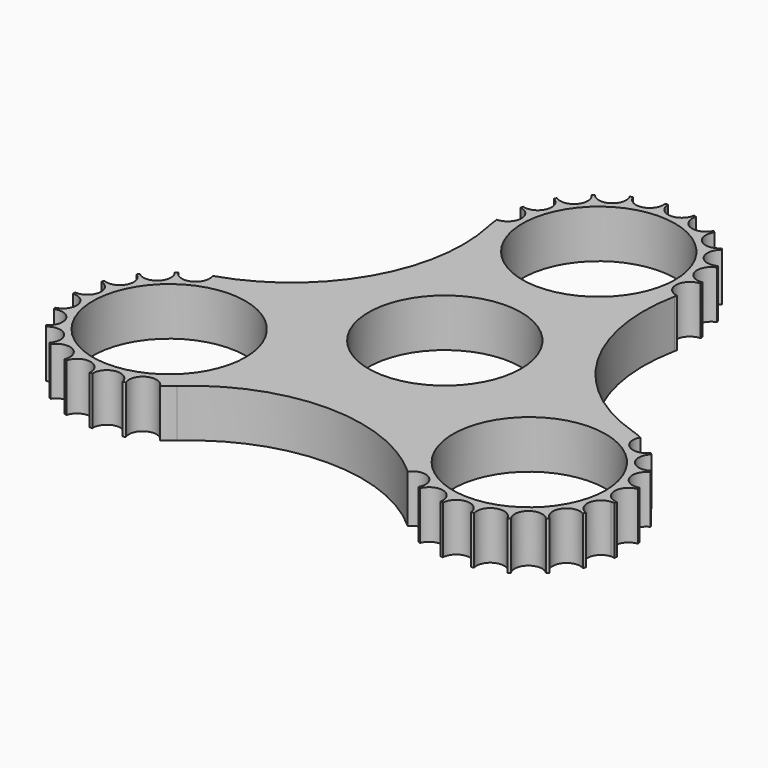
from build123d import *

# Parameters (mm, degrees)
F0_R     = 11.1
F1_DEPTH = 7


with BuildPart() as f1:
    # F0 (on Top) → F1 (new body)
    with BuildSketch(Plane.XY):
        with BuildLine():
            ThreePointArc((13.696931, 25.102746), (11.974288, 27.214871), (13.957972, 29.083981))
            ThreePointArc((13.957972, 29.083981), (13.9413, 29.280684), (13.921856, 29.477133))
            ThreePointArc((13.921856, 29.477133), (11.630843, 30.953557), (12.939852, 33.344177))
            ThreePointArc((12.939852, 33.344177), (12.863211, 33.526101), (12.784013, 33.706927))
            ThreePointArc((12.784013, 33.706927), (10.148889, 34.403128), (10.655089, 37.081249))
            ThreePointArc((10.655089, 37.081249), (10.525982, 37.230586), (10.394781, 37.378087))
            ThreePointArc((10.394781, 37.378087), (7.673492, 37.225916), (7.327332, 39.929384))
            ThreePointArc((7.327332, 39.929384), (7.158396, 40.031516), (6.988036, 40.131255))
            ThreePointArc((6.988036, 40.131255), (4.44696, 39.145607), (3.282324, 41.609789))
            ThreePointArc((3.282324, 41.609789), (3.090096, 41.654717), (2.897254, 41.696931))
            ThreePointArc((2.897254, 41.696931), (0.785129, 39.974288), (-1.083981, 41.957972))
            ThreePointArc((-1.083981, 41.957972), (-1.280684, 41.9413), (-1.477133, 41.921856))
            ThreePointArc((-1.477133, 41.921856), (-2.953557, 39.630843), (-5.344177, 40.939852))
            ThreePointArc((-5.344177, 40.939852), (-5.526101, 40.863211), (-5.706927, 40.784013))
            ThreePointArc((-5.706927, 40.784013), (-6.403128, 38.148889), (-9.081249, 38.655089))
            ThreePointArc((-9.081249, 38.655089), (-9.230586, 38.525982), (-9.378087, 38.394781))
            ThreePointArc((-9.378087, 38.394781), (-9.225916, 35.673492), (-11.929384, 35.327332))
            ThreePointArc((-11.929384, 35.327332), (-12.031516, 35.158396), (-12.131255, 34.988036))
            ThreePointArc((-12.131255, 34.988036), (-11.145607, 32.44696), (-13.609789, 31.282324))
            ThreePointArc((-13.609789, 31.282324), (-13.654717, 31.090096), (-13.696931, 30.897254))
            ThreePointArc((-13.696931, 30.897254), (-11.974288, 28.785129), (-13.957972, 26.916019))
            ThreePointArc((-13.957972, 26.916019), (-13.852658, 25.974198), (-13.683867, 25.041659))
            ThreePointArc((-13.683867, 25.041659), (-16.468709, 7.258906), (-30.476603, -4.044214))
            ThreePointArc((-30.476603, -4.044214), (-30.506332, -4.053796), (-30.536039, -4.063444))
            ThreePointArc((-30.536039, -4.063444), (-31.503871, -6.611359), (-34.114409, -5.827993))
            ThreePointArc((-34.114409, -5.827993), (-34.276424, -5.940783), (-34.436831, -6.055846))
            ThreePointArc((-34.436831, -6.055846), (-34.569945, -8.778134), (-37.294788, -8.839809))
            Line((-37.294788, -8.839809), (-37.531019, -9.156145))
            ThreePointArc((-37.531019, -9.156145), (-36.816385, -11.786329), (-39.388805, -12.687008))
            ThreePointArc((-39.388805, -12.687008), (-39.453581, -12.873487), (-39.515721, -13.06086))
            ThreePointArc((-39.515721, -13.06086), (-38.023292, -15.34148), (-40.191484, -16.992998))
            ThreePointArc((-40.191484, -16.992998), (-40.195465, -17.190367), (-40.196662, -17.387772))
            ThreePointArc((-40.196662, -17.387772), (-38.072527, -19.095584), (-39.624253, -21.33628))
            ThreePointArc((-39.624253, -21.33628), (-39.567049, -21.525218), (-39.507186, -21.713332))
            ThreePointArc((-39.507186, -21.713332), (-36.959271, -22.681164), (-37.742637, -25.291702))
            ThreePointArc((-37.742637, -25.291702), (-37.629847, -25.453716), (-37.514784, -25.614124))
            ThreePointArc((-37.514784, -25.614124), (-34.792496, -25.747238), (-34.730821, -28.472081))
            ThreePointArc((-34.730821, -28.472081), (-34.573486, -28.591311), (-34.414485, -28.708311))
            ThreePointArc((-34.414485, -28.708311), (-31.784301, -27.993677), (-30.883622, -30.566098))
            ThreePointArc((-30.883622, -30.566098), (-30.697143, -30.630874), (-30.50977, -30.693014))
            ThreePointArc((-30.50977, -30.693014), (-28.22915, -29.200585), (-26.577632, -31.368777))
            Line((-26.577632, -31.368777), (-26.182858, -31.373954))
            ThreePointArc((-26.182858, -31.373954), (-24.475046, -29.24982), (-22.23435, -30.801546))
            ThreePointArc((-22.23435, -30.801546), (-22.045412, -30.744341), (-21.857298, -30.684478))
            ThreePointArc((-21.857298, -30.684478), (-20.889466, -28.136563), (-18.278928, -28.919929))
            ThreePointArc((-18.278928, -28.919929), (-17.515944, -28.357813), (-16.792736, -27.745367))
            ThreePointArc((-16.792736, -27.745367), (0, -21.265734), (16.792736, -27.745367))
            ThreePointArc((16.792736, -27.745367), (16.815899, -27.766322), (16.839108, -27.787225))
            ThreePointArc((16.839108, -27.787225), (19.529583, -27.351435), (20.156437, -30.00391))
            ThreePointArc((20.156437, -30.00391), (20.335123, -30.087823), (20.514975, -30.169209))
            ThreePointArc((20.514975, -30.169209), (22.939103, -28.923345), (24.354936, -31.25229))
            Line((24.354936, -31.25229), (24.747006, -31.298705))
            ThreePointArc((24.747006, -31.298705), (26.667495, -29.364721), (28.733716, -31.142163))
            ThreePointArc((28.733716, -31.142163), (28.9276, -31.105022), (29.12094, -31.06515))
            ThreePointArc((29.12094, -31.06515), (30.3498, -28.632358), (32.864153, -29.684309))
            ThreePointArc((32.864153, -29.684309), (33.037069, -29.589072), (33.208626, -29.491406))
            ThreePointArc((33.208626, -29.491406), (33.625567, -26.797945), (36.34193, -27.021431))
            ThreePointArc((36.34193, -27.021431), (36.476953, -26.877421), (36.609932, -26.731522))
            ThreePointArc((36.609932, -26.731522), (36.174142, -24.041046), (38.826617, -23.414193))
            Line((38.826617, -23.414193), (38.991916, -23.055655))
            ThreePointArc((38.991916, -23.055655), (37.691962, -20.885304), (39.558538, -19.177617))
            Line((39.558538, -19.177617), (39.558538, -18.723724))
            ThreePointArc((39.558538, -18.723724), (38.196729, -16.616714), (39.964871, -14.836913))
            ThreePointArc((39.964871, -14.836913), (39.927729, -14.64303), (39.887857, -14.44969))
            ThreePointArc((39.887857, -14.44969), (37.455066, -13.22083), (38.507016, -10.706477))
            ThreePointArc((38.507016, -10.706477), (38.411779, -10.533561), (38.314113, -10.362004))
            ThreePointArc((38.314113, -10.362004), (35.620652, -9.945063), (35.844139, -7.2287))
            ThreePointArc((35.844139, -7.2287), (35.700129, -7.093677), (35.554229, -6.960698))
            ThreePointArc((35.554229, -6.960698), (32.863754, -7.396488), (32.2369, -4.744012))
            ThreePointArc((32.2369, -4.744012), (31.368601, -4.364307), (30.476603, -4.044214))
            ThreePointArc((30.476603, -4.044214), (16.55242, 7.115022), (13.615685, 24.71579))
            ThreePointArc((13.615685, 24.71579), (13.612737, 24.716735), (13.609789, 24.717676))
            ThreePointArc((13.609789, 24.717676), (13.647789, 24.879448), (13.683867, 25.041659))
            ThreePointArc((13.683867, 25.041659), (13.690433, 25.072195), (13.696931, 25.102746))
        make_face()
        with Locations((-26.196669, -17.373961)):
            Circle(F0_R, mode=Mode.SUBTRACT)
        with Locations((26.196669, -17.373961)):
            Circle(F0_R, mode=Mode.SUBTRACT)
        Circle(F0_R, mode=Mode.SUBTRACT)
        with Locations((0, 28)):
            Circle(F0_R, mode=Mode.SUBTRACT)
        with BuildLine():
            ThreePointArc((13.615685, 24.71579), (13.649233, 24.878838), (13.683867, 25.041659))
            ThreePointArc((13.683867, 25.041659), (13.647789, 24.879448), (13.609789, 24.717676))
            ThreePointArc((13.609789, 24.717676), (13.612737, 24.716735), (13.615685, 24.71579))
        make_face()
        with BuildLine():
            ThreePointArc((40.121412, -18.823624), (39.836387, -18.793889), (39.558538, -18.723724))
            Line((39.558538, -18.723724), (39.558538, -19.177617))
            ThreePointArc((39.558538, -19.177617), (39.818006, -19.179869), (40.074998, -19.215694))
            ThreePointArc((40.074998, -19.215694), (40.099587, -19.019823), (40.121412, -18.823624))
        make_face()
    extrude(amount=F1_DEPTH)


solid = f1.part
